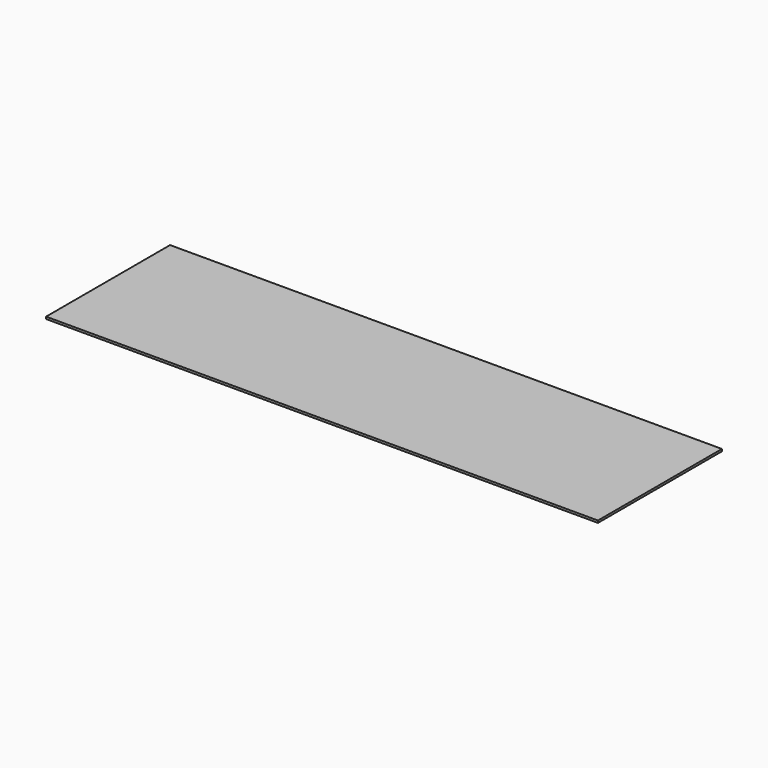
from build123d import *

# Parameters (mm, degrees)
F1_W     = 5110
F1_H     = 1435
F2_DEPTH = 20


with BuildPart() as f2:
    # F1 (on face) → F2 (new body)
    with BuildSketch(Plane.XY):
        with Locations((43.831296, -357.647575)):
            Rectangle(F1_W, F1_H)
    extrude(amount=F2_DEPTH)


solid = f2.part
